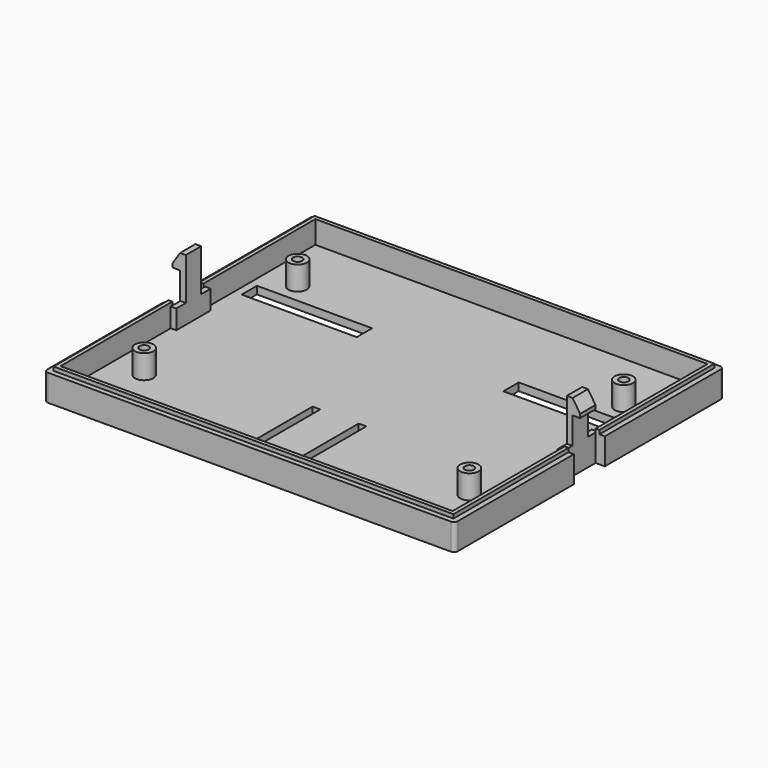
from build123d import *

# Parameters (mm, degrees)
SKETCH_W      = 102.2
SKETCH_H      = 83
SKETCH_W_2    = 30
SKETCH_H_2    = 5
SKETCH_W_3    = 2
SKETCH_H_3    = 25
PAD_DEPTH     = 2
SKETCH001_R   = 2.4
SKETCH001_R_2 = 1.2
PAD001_DEPTH  = 6.2
PAD002_DEPTH  = 6.9
PAD003_DEPTH  = 1
SKETCH004_W   = 1.45
SKETCH004_H   = 11.2
PAD004_DEPTH  = 5
SKETCH005_W   = 1.45
SKETCH005_H   = 5
PAD005_DEPTH  = 7
PAD006_DEPTH  = 5
FILLET_R      = 1
FILLET001_R   = 1
FILLET002_R   = 1
FILLET003_R   = 1


with BuildPart() as part:
    # Sketch → Pad (new body)
    with BuildSketch(Plane.XY):
        Rectangle(SKETCH_W, SKETCH_H)
        with Locations((34.1, 17.5)):
            Rectangle(SKETCH_W_2, SKETCH_H_2, mode=Mode.SUBTRACT)
        with Locations((-34.1, 17.5)):
            Rectangle(SKETCH_W_2, SKETCH_H_2, mode=Mode.SUBTRACT)
        with Locations((6, -27)):
            Rectangle(SKETCH_W_3, SKETCH_H_3, mode=Mode.SUBTRACT)
        with Locations((-6, -27)):
            Rectangle(SKETCH_W_3, SKETCH_H_3, mode=Mode.SUBTRACT)
    extrude(amount=PAD_DEPTH)

    # Sketch001 (on Face22 of Pad) → Pad001 (join)
    with BuildSketch(Plane.XY.offset(2)):
        with Locations((-42.5, -25)):
            Circle(SKETCH001_R)
        with Locations((-42.5, -25)):
            Circle(SKETCH001_R_2, mode=Mode.SUBTRACT)
        with Locations((42.5, 25)):
            Circle(SKETCH001_R)
        with Locations((42.5, 25)):
            Circle(SKETCH001_R_2, mode=Mode.SUBTRACT)
        with Locations((42.25, -25)):
            Circle(SKETCH001_R)
        with Locations((42.25, -25)):
            Circle(SKETCH001_R_2, mode=Mode.SUBTRACT)
        with Locations((-42.5, 25)):
            Circle(SKETCH001_R)
        with Locations((-42.5, 25)):
            Circle(SKETCH001_R_2, mode=Mode.SUBTRACT)
    extrude(amount=PAD001_DEPTH)

    # Sketch002 → Pad002 (join)
    with BuildSketch(Plane.XY):
        Polygon((-51.1, 41.5), (51.1, 41.5), (51.1, 5.05), (53.5, 5.05), (53.5, 43.85), (-53.5, 43.85), (-53.5, 5.05), (-51.1, 5.05), align=None)
    pad002 = extrude(amount=PAD002_DEPTH)

    # Mirrored: Pad002 across XZ
    add(pad002.mirror(Plane.XZ))

    # Sketch003 (on Face38 of Mirrored) → Pad003 (join)
    with BuildSketch(Plane.XY.offset(6.9)):
        Polygon((-51.1, 5.05), (-51.1, 41.5), (51.1, 41.5), (51.1, 5.05), (52.1, 5.05), (52.1, 42.5), (-52.1, 42.5), (-52.1, 5.05), align=None)
    pad003 = extrude(amount=PAD003_DEPTH)

    # Mirrored001: Pad003 across XZ
    add(pad003.mirror(Plane.XZ))

    # Sketch004 (on Face3 of Mirrored001) → Pad004 (join)
    with BuildSketch(Plane.XY.offset(2)):
        with Locations((50.375, 0)):
            Rectangle(SKETCH004_W, SKETCH004_H)
    pad004 = extrude(amount=PAD004_DEPTH)

    # Mirrored002: Pad004 across YZ
    add(pad004.mirror(Plane.YZ))

    # Sketch005 (on Face40 of Mirrored002) → Pad005 (join)
    with BuildSketch(Plane.XY.offset(7)):
        with Locations((50.375, 0)):
            Rectangle(SKETCH005_W, SKETCH005_H)
    pad005 = extrude(amount=PAD005_DEPTH)

    # Mirrored003: Pad005 across YZ
    add(pad005.mirror(Plane.YZ))

    # Sketch006 (on Face2 of Mirrored003) → Pad006 (join)
    with BuildSketch(Plane.XZ.offset(2.5)):
        Polygon((49.65, 14), (51.1, 14), (53.1, 14), (53.1, 15), (51.15, 18), (49.65, 18), align=None)
    pad006 = extrude(amount=-PAD006_DEPTH)

    # Mirrored004: Pad006 across YZ
    add(pad006.mirror(Plane.YZ))

    # Fillet
    fillet_edges = [part.edges().sort_by_distance(p)[0] for p in [
        (53.5, -43.85, 3.45),
    ]]
    fillet(fillet_edges, radius=FILLET_R)

    # Fillet001
    fillet001_edges = [part.edges().sort_by_distance(p)[0] for p in [
        (53.5, 43.85, 3.45),
    ]]
    fillet(fillet001_edges, radius=FILLET001_R)

    # Fillet002
    fillet002_edges = [part.edges().sort_by_distance(p)[0] for p in [
        (-53.5, -43.85, 3.45),
    ]]
    fillet(fillet002_edges, radius=FILLET002_R)

    # Fillet003
    fillet003_edges = [part.edges().sort_by_distance(p)[0] for p in [
        (-53.5, 43.85, 3.45),
    ]]
    fillet(fillet003_edges, radius=FILLET003_R)


solid = part.part
